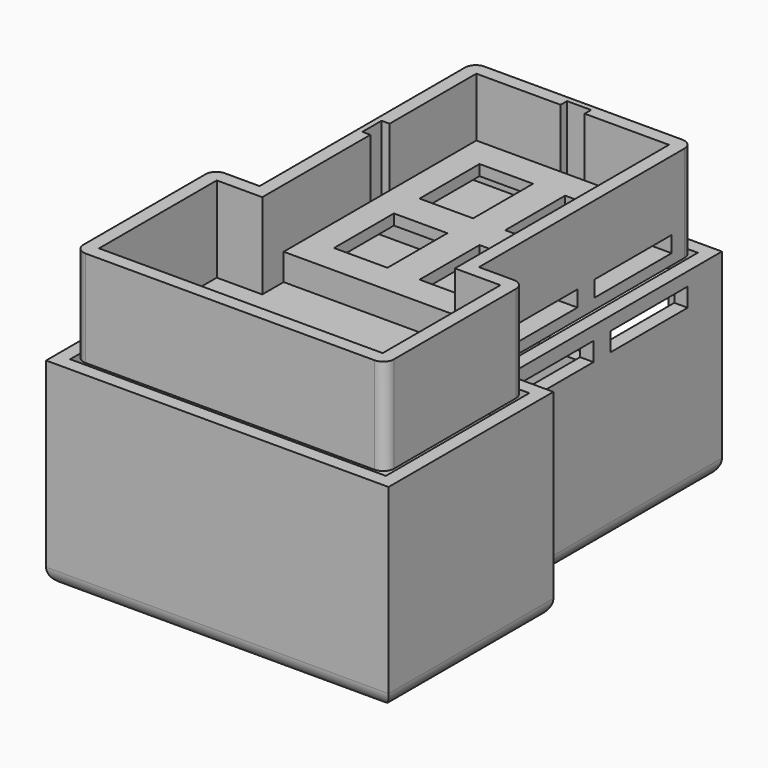
from build123d import *

# Parameters (mm, degrees)
F1_DEPTH  = 2
F2_DEPTH  = 18
F3_W      = 36
F3_H      = 45
F4_DEPTH  = 5
F5_W      = 18
F5_H      = 3
F6_DEPTH  = 41
F7_W      = 10
F7_H      = 14
F8_DEPTH  = 3
F9_DEPTH  = 35
F11_DEPTH = 2
F12_R     = 3
F13_R     = 2
F14_W     = 31
F14_H     = 25
F15_DEPTH = 2.5
F16_W     = 18
F16_H     = 3.5
F17_DEPTH = 47
F18_R     = 10


with BuildPart() as f1:
    # F0 (on Top) → F1 (new body)
    with BuildSketch(Plane.XY):
        Polygon((20.5, -25), (20.5, 25), (-20.5, 25), (-20.5, -25), (-29, -25), (-29, -57.5), (29, -57.5), (29, -25), align=None)
        Polygon((2.25, 22.5), (18, 22.5), (18, -27.5), (26.5, -27.5), (26.5, -55), (-26.5, -55), (-26.5, -27.5), (-18, -27.5), (-18, -2.25), (-19.5, -2.25), (-19.5, 2.25), (-18, 2.25), (-18, 22.5), (-2.25, 22.5), (-2.25, 24), (2.25, 24), align=None, mode=Mode.SUBTRACT)
        Polygon((18, -27.5), (18, 22.5), (2.25, 22.5), (2.25, 24), (-2.25, 24), (-2.25, 22.5), (-18, 22.5), (-18, 2.25), (-19.5, 2.25), (-19.5, -2.25), (-18, -2.25), (-18, -27.5), (-26.5, -27.5), (-26.5, -55), (26.5, -55), (26.5, -27.5), align=None)
    extrude(amount=F1_DEPTH)

    # F0 (on Top) → F2 (join)
    with BuildSketch(Plane.XY):
        Polygon((20.5, -25), (20.5, 25), (-20.5, 25), (-20.5, -25), (-29, -25), (-29, -57.5), (29, -57.5), (29, -25), align=None)
        Polygon((2.25, 22.5), (18, 22.5), (18, -27.5), (26.5, -27.5), (26.5, -55), (-26.5, -55), (-26.5, -27.5), (-18, -27.5), (-18, -2.25), (-19.5, -2.25), (-19.5, 2.25), (-18, 2.25), (-18, 22.5), (-2.25, 22.5), (-2.25, 24), (2.25, 24), align=None, mode=Mode.SUBTRACT)
    extrude(amount=F2_DEPTH)

    # F3 (on face) → F4 (join)
    with BuildSketch(Plane.XY.offset(2)):
        Rectangle(F3_W, F3_H)
    extrude(amount=F4_DEPTH)

    # F5 (on face) → F6 (cut, through all)
    with BuildSketch(Plane(origin=(-20.5, 0, 0), x_dir=(0, -1, 0), z_dir=(-1, 0, 0))):
        with Locations((11, 3.5)):
            Rectangle(F5_W, F5_H)
        with Locations((-11, 3.5)):
            Rectangle(F5_W, F5_H)
    extrude(amount=-F6_DEPTH, mode=Mode.SUBTRACT)

    # F7 (on face) → F8 (cut)
    with BuildSketch(Plane.XY.offset(7)):
        with Locations((-8, 10)):
            Rectangle(F7_W, F7_H)
        with Locations((8, 10)):
            Rectangle(F7_W, F7_H)
        with Locations((-8, -10)):
            Rectangle(F7_W, F7_H)
        with Locations((8, -10)):
            Rectangle(F7_W, F7_H)
    extrude(amount=-F8_DEPTH, mode=Mode.SUBTRACT)

    # F13
    f13_edges = [f1.edges().sort_by_distance(p)[0] for p in [
        (-29, -57.5, 9),
        (-29, -25, 9),
        (29, -57.5, 9),
        (-20.5, 25, 9),
        (29, -25, 9),
        (20.5, 25, 9),
    ]]
    fillet(f13_edges, radius=F13_R)


with BuildPart() as f9:
    # F0 (on Top) → F9 (new body)
    with BuildSketch(Plane.XY):
        Polygon((-23.5, -22), (-32, -22), (-32, -60.5), (32, -60.5), (32, -22), (23.5, -22), (23.5, 28), (-23.5, 28), align=None)
        with BuildLine():
            Line((-29.5, -58), (-29.5, -24.5))
            Line((-29.5, -24.5), (-23, -24.5))
            ThreePointArc((-23, -24.5), (-21.585786, -23.914214), (-21, -22.5))
            Line((-21, -22.5), (-21, 25.5))
            Line((-21, 25.5), (21, 25.5))
            Line((21, 25.5), (21, -22.5))
            ThreePointArc((21, -22.5), (21.585786, -23.914214), (23, -24.5))
            Line((23, -24.5), (29.5, -24.5))
            Line((29.5, -24.5), (29.5, -58))
            Line((29.5, -58), (-29.5, -58))
        make_face(mode=Mode.SUBTRACT)
    extrude(amount=-F9_DEPTH)

    # F10 (on face) → F11 (join)
    with BuildSketch(Plane(origin=(0, 0, -35), x_dir=(1, 0, 0), z_dir=(0, 0, -1))):
        Polygon((32, 60.5), (-32, 60.5), (-32, 22), (-23.5, 22), (-23.5, -28), (23.5, -28), (23.5, 22), (32, 22), align=None)
    extrude(amount=F11_DEPTH)

    # F12
    f12_edges = [f9.edges().sort_by_distance(p)[0] for p in [
        (0, -60.5, -37),
        (-32, -41.25, -37),
        (-27.75, -22, -37),
        (-23.5, 3, -37),
        (0, 28, -37),
        (23.5, 3, -37),
        (27.75, -22, -37),
        (32, -41.25, -37),
    ]]
    fillet(f12_edges, radius=F12_R)

    # F14 (on face) → F15 (cut, through all)
    with BuildSketch(Plane(origin=(0, 28, 0), x_dir=(-1, 0, 0), z_dir=(0, 1, 0))):
        with Locations((0, -12.5)):
            Rectangle(F14_W, F14_H)
    extrude(amount=-F15_DEPTH, mode=Mode.SUBTRACT)

    # F16 (on face) → F17 (cut, through all)
    with BuildSketch(Plane.YZ.offset(23.5)):
        with Locations((-11, -4.25)):
            Rectangle(F16_W, F16_H)
        with Locations((11, -4.25)):
            Rectangle(F16_W, F16_H)
    extrude(amount=-F17_DEPTH, mode=Mode.SUBTRACT)

    # F18
    f18_edges = [f9.edges().sort_by_distance(p)[0] for p in [
        (15.5, 26.75, -25),
        (-15.5, 26.75, -25),
    ]]
    fillet(f18_edges, radius=F18_R)


solid = Compound([f1.part, f9.part])
